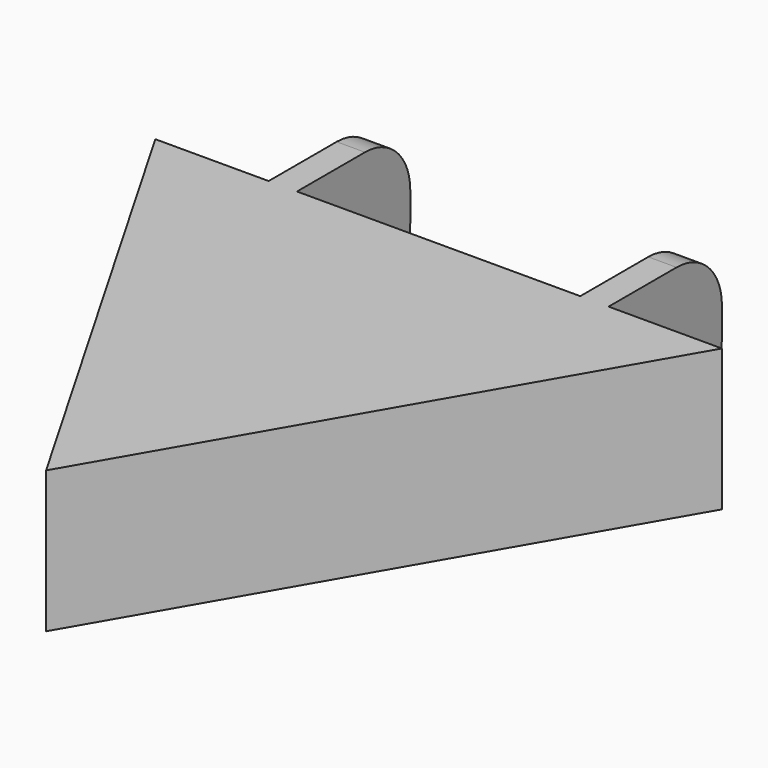
from build123d import *

# Parameters (mm, degrees)
F1_DEPTH = 12.7
F2_W     = 2.54
F2_H     = 12.7
F3_DEPTH = 12.7
F4_R     = 1.27
F5_DEPTH = 25.4
F6_R     = 1.27
F7_DEPTH = 25.4
F8_R     = 5.08


with BuildPart() as f1:
    # F0 (on Top) → F1 (new body)
    with BuildSketch(Plane.XY):
        Polygon((-25.4, 14.664697), (0, -29.329394), (25.4, 14.664697), align=None)
    extrude(amount=F1_DEPTH)

    # F2 (on face) → F3 (join)
    with BuildSketch(Plane(origin=(0, 14.664697, 0), x_dir=(-1, 0, 0), z_dir=(0, 1, 0))):
        with Locations((-13.97, 6.35)):
            Rectangle(F2_W, F2_H)
        with Locations((13.97, 6.35)):
            Rectangle(F2_W, F2_H)
    extrude(amount=F3_DEPTH)

    # F4 (on face) → F5 (cut)
    with BuildSketch(Plane.YZ.offset(15.24)):
        with Locations((21.014697, 6.35)):
            Circle(F4_R)
    extrude(amount=-F5_DEPTH, mode=Mode.SUBTRACT)

    # F6 (on face) → F7 (cut)
    with BuildSketch(Plane(origin=(-15.24, 0, 0), x_dir=(0, -1, 0), z_dir=(-1, 0, 0))):
        with Locations((-21.014697, 6.35)):
            Circle(F6_R)
    extrude(amount=-F7_DEPTH, mode=Mode.SUBTRACT)

    # F8
    f8_edges = [f1.edges().sort_by_distance(p)[0] for p in [
        (13.97, 27.364697, 12.7),
        (13.97, 27.364697, 0),
        (-13.97, 27.364697, 12.7),
        (-13.97, 27.364697, 0),
    ]]
    fillet(f8_edges, radius=F8_R)


solid = f1.part
